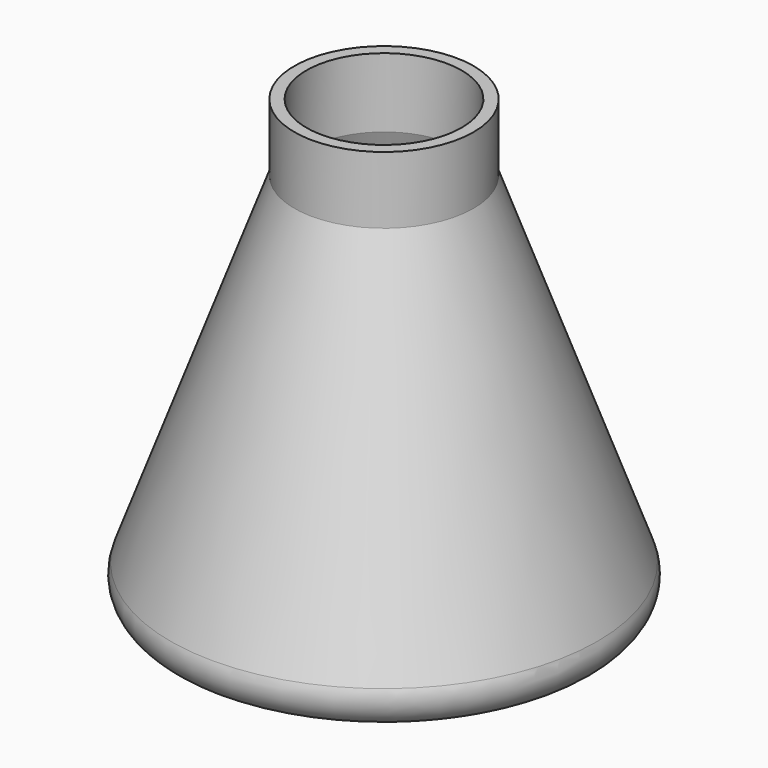
from build123d import *


with BuildPart() as f1:
    # F0 (on Front) → F1 (revolve)
    with BuildSketch(Plane.XZ):
        with BuildLine():
            Line((0, 8), (0, 0))
            Line((0, 0), (124.24945, 0))
            ThreePointArc((124.24945, 0), (140.63249, 8.528471), (143.043302, 26.840403))
            Line((143.043302, 26.840403), (60, 255))
            Line((60, 255), (60, 300))
            Line((60, 300), (52, 300))
            Line((52, 300), (52, 253.589384))
            Line((52, 253.589384), (135.525761, 24.104242))
            ThreePointArc((135.525761, 24.104242), (134.079274, 13.117083), (124.24945, 8))
            Line((124.24945, 8), (0, 8))
        make_face()
    revolve(axis=Axis((0, 0, 4), (0, 0, 1)))


solid = f1.part
